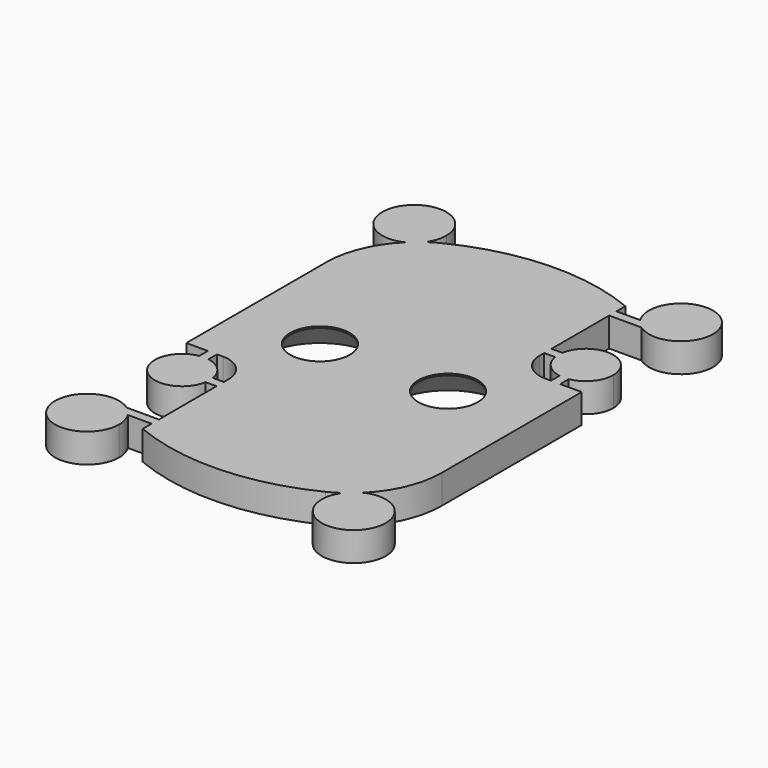
from build123d import *

# Parameters (mm, degrees)
F0_R     = 3.25
F1_DEPTH = 3.175
F2_SIZE  = 3
F4_DEPTH = 3.175
F6_DEPTH = 3.175


with BuildPart() as f1:
    # F0 (on Top) → F1 (new body)
    with BuildSketch(Plane.XY):
        with BuildLine():
            Line((9, 10), (9, 21.7082933461))
            ThreePointArc((9, 21.7082933461), (-0.7933886028, 23.486603299), (-10.4444444444, 21.0514507872))
            ThreePointArc((-10.4444444444, 21.0514507872), (-14.498365856, 17.3638493894), (-16, 12.0933866224))
            Line((-16, 12.0933866224), (-16, -7))
            Line((-16, -7), (-12, -7))
            ThreePointArc((-12, -7), (-9.8786796564, -7.8786796564), (-9, -10))
            Line((-9, -10), (-9, -21.7082933461))
            ThreePointArc((-9, -21.7082933461), (0.7933886028, -23.486603299), (10.4444444444, -21.0514507872))
            ThreePointArc((10.4444444444, -21.0514507872), (14.498365856, -17.3638493894), (16, -12.0933866224))
            Line((16, -12.0933866224), (16, 7))
            Line((16, 7), (12, 7))
            ThreePointArc((12, 7), (9.8786796564, 7.8786796564), (9, 10))
        make_face()
        with Locations((-7, 0)):
            Circle(F0_R, mode=Mode.SUBTRACT)
        with Locations((7, 0)):
            Circle(F0_R, mode=Mode.SUBTRACT)
    extrude(amount=F1_DEPTH)

    # F2
    f2_edges = [f1.edges().sort_by_distance(p)[0] for p in [
        (-10.25, 0, 0),
        (3.75, 0, 0),
    ]]
    chamfer(f2_edges, length=F2_SIZE)

    # F3 (on face) → F4 (join, through all)
    with BuildSketch(Plane(origin=(0, 0, 0), x_dir=(1, 0, 0), z_dir=(0, 0, -1))):
        with BuildLine():
            ThreePointArc((-10.1919601085, 10.625), (-10.1605084316, 10.8741212192), (-10.15, 11.125))
            ThreePointArc((-10.15, 11.125), (-10.1605084316, 11.3758787808), (-10.1919601085, 11.625))
            Line((-10.1919601085, 11.625), (-12, 11.625))
            Line((-12, 11.625), (-12, 10.625))
            Line((-12, 10.625), (-10.1919601085, 10.625))
        make_face()
        with BuildLine():
            ThreePointArc((-10.1919601085, 11.625), (-10.1605084316, 11.3758787808), (-10.15, 11.125))
            ThreePointArc((-10.15, 11.125), (-10.1605084316, 10.8741212192), (-10.1919601085, 10.625))
            Line((-10.1919601085, 10.625), (-6, 10.625))
            Line((-6, 10.625), (-6, 11.625))
            Line((-6, 11.625), (-10.1919601085, 11.625))
        make_face()
        with BuildLine():
            Line((-12, 11.625), (-10.1919601085, 11.625))
            ThreePointArc((-10.1919601085, 11.625), (-15.2713203436, 13.2463203436), (-13.65, 8.1669601085))
            Line((-13.65, 8.1669601085), (-13.65, 10))
            Line((-13.65, 10), (-12.65, 10))
            Line((-12.65, 10), (-12.65, 8.1669601085))
            ThreePointArc((-12.65, 8.1669601085), (-11.0286796564, 9.0036796564), (-10.1919601085, 10.625))
            Line((-10.1919601085, 10.625), (-12, 10.625))
            Line((-12, 10.625), (-12, 11.625))
        make_face()
        with BuildLine():
            Line((-13.65, 10), (-13.65, 8.1669601085))
            ThreePointArc((-13.65, 8.1669601085), (-13.15, 8.125), (-12.65, 8.1669601085))
            Line((-12.65, 8.1669601085), (-12.65, 10))
            Line((-12.65, 10), (-13.65, 10))
        make_face()
        with BuildLine():
            ThreePointArc((-12.65, 8.1669601085), (-13.15, 8.125), (-13.65, 8.1669601085))
            Line((-13.65, 8.1669601085), (-13.65, 4))
            Line((-13.65, 4), (-12.65, 4))
            Line((-12.65, 4), (-12.65, 8.1669601085))
        make_face()
        with BuildLine():
            ThreePointArc((10.1919601085, -11.625), (13.4008787808, -14.1144915684), (16.15, -11.125))
            ThreePointArc((16.15, -11.125), (15.4412878475, -9.1885083269), (13.65, -8.1669601085))
            Line((13.65, -8.1669601085), (13.65, -10))
            Line((13.65, -10), (12.65, -10))
            Line((12.65, -10), (12.65, -8.1669601085))
            ThreePointArc((12.65, -8.1669601085), (11.0286796564, -9.0036796564), (10.1919601085, -10.625))
            Line((10.1919601085, -10.625), (12, -10.625))
            Line((12, -10.625), (12, -11.625))
            Line((12, -11.625), (10.1919601085, -11.625))
        make_face()
        with BuildLine():
            Line((13.65, -10), (13.65, -8.1669601085))
            ThreePointArc((13.65, -8.1669601085), (13.15, -8.125), (12.65, -8.1669601085))
            Line((12.65, -8.1669601085), (12.65, -10))
            Line((12.65, -10), (13.65, -10))
        make_face()
        with BuildLine():
            ThreePointArc((12.65, -8.1669601085), (13.15, -8.125), (13.65, -8.1669601085))
            Line((13.65, -8.1669601085), (13.65, -4))
            Line((13.65, -4), (12.65, -4))
            Line((12.65, -4), (12.65, -8.1669601085))
        make_face()
        with BuildLine():
            Line((6, -11.625), (10.1919601085, -11.625))
            ThreePointArc((10.1919601085, -11.625), (10.15, -11.125), (10.1919601085, -10.625))
            Line((10.1919601085, -10.625), (6, -10.625))
            Line((6, -10.625), (6, -11.625))
        make_face()
        with BuildLine():
            ThreePointArc((10.1919601085, -10.625), (10.15, -11.125), (10.1919601085, -11.625))
            Line((10.1919601085, -11.625), (12, -11.625))
            Line((12, -11.625), (12, -10.625))
            Line((12, -10.625), (10.1919601085, -10.625))
        make_face()
    extrude(amount=-F4_DEPTH)

    # F5 (on face) → F6 (join, through all)
    with BuildSketch(Plane(origin=(0, 0, 0), x_dir=(1, 0, 0), z_dir=(0, 0, -1))):
        with BuildLine():
            ThreePointArc((-11.5932314837, 20.5), (-11.2019974715, 21.3852645073), (-11.068175, 22.3438305439))
            ThreePointArc((-11.068175, 22.3438305439), (-17.6819252846, 23.9421293787), (-12.5279230945, 19.5))
            Line((-12.5279230945, 19.5), (-13.5525882542, 19.5))
            Line((-13.5525882542, 19.5), (-13.5525882542, 20.5))
            Line((-13.5525882542, 20.5), (-11.5932314837, 20.5))
        make_face()
        with BuildLine():
            Line((-13.5525882542, 19.5), (-12.5279230945, 19.5))
            ThreePointArc((-12.5279230945, 19.5), (-12.0112146406, 19.9538611465), (-11.5932314837, 20.5))
            Line((-11.5932314837, 20.5), (-13.5525882542, 20.5))
            Line((-13.5525882542, 20.5), (-13.5525882542, 19.5))
        make_face()
        with BuildLine():
            ThreePointArc((-11.5932314837, 20.5), (-12.0112146406, 19.9538611465), (-12.5279230945, 19.5))
            Line((-12.5279230945, 19.5), (-4.4474117458, 19.5))
            Line((-4.4474117458, 19.5), (-4.4474117458, 20.5))
            Line((-4.4474117458, 20.5), (-11.5932314837, 20.5))
        make_face()
        with BuildLine():
            ThreePointArc((-12.5279230945, -19.5), (-17.6819252846, -23.9421293787), (-11.068175, -22.3438305439))
            ThreePointArc((-11.068175, -22.3438305439), (-11.2019974715, -21.3852645073), (-11.5932314837, -20.5))
            Line((-11.5932314837, -20.5), (-13.5525882542, -20.5))
            Line((-13.5525882542, -20.5), (-13.5525882542, -19.5))
            Line((-13.5525882542, -19.5), (-12.5279230945, -19.5))
        make_face()
        with BuildLine():
            Line((-13.5525882542, -20.5), (-11.5932314837, -20.5))
            ThreePointArc((-11.5932314837, -20.5), (-12.0112146406, -19.9538611465), (-12.5279230945, -19.5))
            Line((-12.5279230945, -19.5), (-13.5525882542, -19.5))
            Line((-13.5525882542, -19.5), (-13.5525882542, -20.5))
        make_face()
        with BuildLine():
            ThreePointArc((-12.5279230945, -19.5), (-12.0112146406, -19.9538611465), (-11.5932314837, -20.5))
            Line((-11.5932314837, -20.5), (-4.4474117458, -20.5))
            Line((-4.4474117458, -20.5), (-4.4474117458, -19.5))
            Line((-4.4474117458, -19.5), (-12.5279230945, -19.5))
        make_face()
        with BuildLine():
            ThreePointArc((12.5279230945, 19.5), (16.1664738348, 19.2300802593), (18.068175, 22.3438305439))
            ThreePointArc((18.068175, 22.3438305439), (13.6096089635, 25.7100080724), (11.5932314837, 20.5))
            Line((11.5932314837, 20.5), (13.5525882542, 20.5))
            Line((13.5525882542, 20.5), (13.5525882542, 19.5))
            Line((13.5525882542, 19.5), (12.5279230945, 19.5))
        make_face()
        with BuildLine():
            Line((13.5525882542, 20.5), (11.5932314837, 20.5))
            ThreePointArc((11.5932314837, 20.5), (12.0112146406, 19.9538611465), (12.5279230945, 19.5))
            Line((12.5279230945, 19.5), (13.5525882542, 19.5))
            Line((13.5525882542, 19.5), (13.5525882542, 20.5))
        make_face()
        with BuildLine():
            ThreePointArc((12.5279230945, 19.5), (12.0112146406, 19.9538611465), (11.5932314837, 20.5))
            Line((11.5932314837, 20.5), (4.4474117458, 20.5))
            Line((4.4474117458, 20.5), (4.4474117458, 19.5))
            Line((4.4474117458, 19.5), (12.5279230945, 19.5))
        make_face()
        with BuildLine():
            ThreePointArc((11.5932314837, -20.5), (13.6096089635, -25.7100080724), (18.068175, -22.3438305439))
            ThreePointArc((18.068175, -22.3438305439), (16.1664738348, -19.2300802593), (12.5279230945, -19.5))
            Line((12.5279230945, -19.5), (13.5525882542, -19.5))
            Line((13.5525882542, -19.5), (13.5525882542, -20.5))
            Line((13.5525882542, -20.5), (11.5932314837, -20.5))
        make_face()
        with BuildLine():
            Line((13.5525882542, -19.5), (12.5279230945, -19.5))
            ThreePointArc((12.5279230945, -19.5), (12.0112146406, -19.9538611465), (11.5932314837, -20.5))
            Line((11.5932314837, -20.5), (13.5525882542, -20.5))
            Line((13.5525882542, -20.5), (13.5525882542, -19.5))
        make_face()
        with BuildLine():
            ThreePointArc((11.5932314837, -20.5), (12.0112146406, -19.9538611465), (12.5279230945, -19.5))
            Line((12.5279230945, -19.5), (4.4474117458, -19.5))
            Line((4.4474117458, -19.5), (4.4474117458, -20.5))
            Line((4.4474117458, -20.5), (11.5932314837, -20.5))
        make_face()
    extrude(amount=-F6_DEPTH)


solid = f1.part
